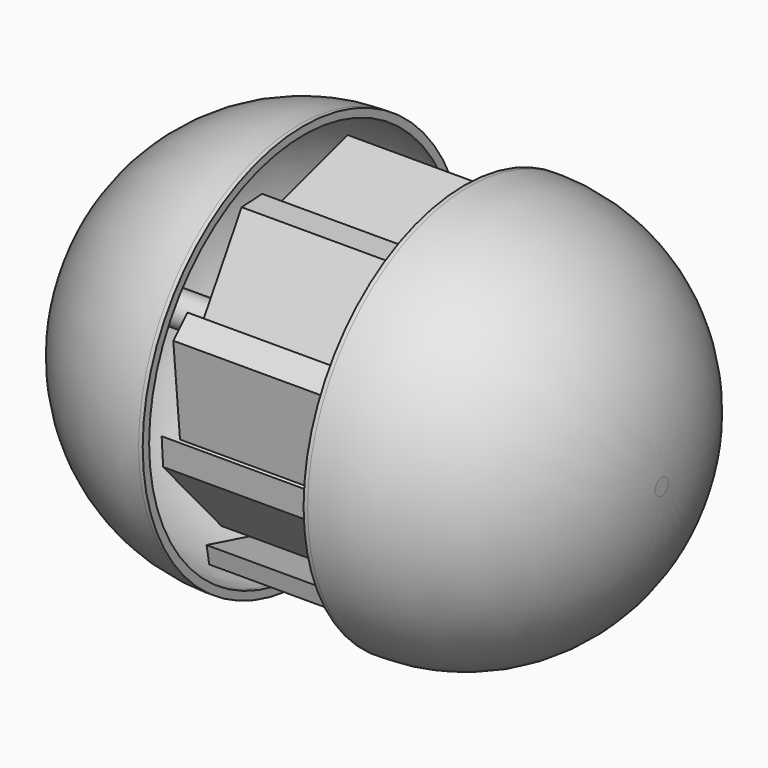
from build123d import *

# Parameters (mm, degrees)
F0_R          = 63.5
F1_DEPTH      = 62.24945
F2_R          = 60.96
F3_T          = -2.54
F5_DEPTH      = 50.8
F5_DEPTH_BACK = 13.64568
F6_R          = 63.5
F7_DEPTH      = 62.2554
F8_R          = 60.96
F9_T          = -2.54
F11_DEPTH     = 62.23


with BuildPart() as f1:
    # F0 (on Right) → F1 (new body)
    with BuildSketch(Plane.YZ):
        Circle(F0_R)
    extrude(amount=F1_DEPTH)

    # F2
    f2_edges = [f1.edges().sort_by_distance(p)[0] for p in [
        (62.24945, -63.5, 0),
    ]]
    fillet(f2_edges, radius=F2_R)

    # F3
    f3_openings = [f1.faces().sort_by_distance(p)[0] for p in [
        (0, 0, 0),
    ]]
    offset(amount=F3_T, openings=f3_openings)


with BuildPart() as f5:
    # F4 (on Right) → F5 (new body, two sides)
    with BuildSketch(Plane.YZ) as f5_sk:
        Polygon((-12.2779998928, -54.0258996189), (0, -56.0381636024), (27.318008244, -42.0982576907), align=None)
    extrude(amount=-F5_DEPTH)
    extrude(f5_sk.sketch, amount=F5_DEPTH_BACK)


with BuildPart() as f5b:
    # F4 (on Right) → F5, piece 2 (new body, two sides)
    with BuildSketch(Plane.YZ) as f5_2_sk:
        Polygon((26.4493785799, -48.795837909), (31.8828113377, -46.9619706273), (47.5382730365, -20.5004774034), align=None)
    extrude(amount=-F5_DEPTH)
    extrude(f5_2_sk.sketch, amount=F5_DEPTH_BACK)


with BuildPart() as f5c:
    # F4 (on Right) → F5, piece 3 (new body, two sides)
    with BuildSketch(Plane.YZ) as f5_3_sk:
        Polygon((54.8039674759, 0), (57.2355017066, 5.0882892683), (40.709707886, 22.2628358752), align=None)
    extrude(amount=-F5_DEPTH)
    extrude(f5_3_sk.sketch, amount=F5_DEPTH_BACK)


with BuildPart() as f5d:
    # F4 (on Right) → F5, piece 4 (new body, two sides)
    with BuildSketch(Plane.YZ) as f5_4_sk:
        Polygon((45.5096811056, 23.9293668419), (48.1954142451, 28.621762991), (17.884682864, 43.3531589806), align=None)
    extrude(amount=-F5_DEPTH)
    extrude(f5_4_sk.sketch, amount=F5_DEPTH_BACK)


with BuildPart() as f5e:
    # F4 (on Right) → F5, piece 5 (new body, two sides)
    with BuildSketch(Plane.YZ) as f5_5_sk:
        Polygon((17.4675732851, 53.8366436958), (-16.9960986823, 43.6473637819), (22.3015490919, 49.163594842), align=None)
    extrude(amount=-F5_DEPTH)
    extrude(f5_5_sk.sketch, amount=F5_DEPTH_BACK)


with BuildPart() as f5f:
    # F4 (on Right) → F5, piece 6 (new body, two sides)
    with BuildSketch(Plane.YZ) as f5_6_sk:
        Polygon((49.7148856521, 0), (50.1664020121, -27.1181967109), (53.7517331541, -19.3063598126), align=None)
    extrude(amount=-F5_DEPTH)
    extrude(f5_6_sk.sketch, amount=F5_DEPTH_BACK)


with BuildPart() as f5g:
    # F4 (on Right) → F5, piece 7 (new body, two sides)
    with BuildSketch(Plane.YZ) as f5_7_sk:
        Polygon((-16.3454543799, 51.2468442321), (-24.4541112334, 50.8350729942), (-42.9316759109, 20.0755931437), align=None)
    extrude(amount=-F5_DEPTH)
    extrude(f5_7_sk.sketch, amount=F5_DEPTH_BACK)


with BuildPart() as f5h:
    # F4 (on Right) → F5, piece 8 (new body, two sides)
    with BuildSketch(Plane.YZ) as f5_8_sk:
        Polygon((-45.8026230335, 30.2262138575), (-51.4272674918, 24.6791280806), (-48.7781465054, -3.8723812904), align=None)
    extrude(amount=-F5_DEPTH)
    extrude(f5_8_sk.sketch, amount=F5_DEPTH_BACK)


with BuildPart() as f5i:
    # F4 (on Right) → F5, piece 9 (new body, two sides)
    with BuildSketch(Plane.YZ) as f5_9_sk:
        Polygon((-32.4342508783, -34.5323896163), (-56.0246482491, 0), (-55.4331839085, -8.7939575315), align=None)
    extrude(amount=-F5_DEPTH)
    extrude(f5_9_sk.sketch, amount=F5_DEPTH_BACK)


with BuildPart() as f5j:
    # F4 (on Right) → F5, piece 10 (new body, two sides)
    with BuildSketch(Plane.YZ) as f5_10_sk:
        Polygon((-38.2842086256, -37.4709889293), (-37.2309498489, -43.2974100113), (0, -47.5588440895), align=None)
    extrude(amount=-F5_DEPTH)
    extrude(f5_10_sk.sketch, amount=F5_DEPTH_BACK)


with BuildPart() as f7:
    # F6 (on face) → F7 (new body)
    with BuildSketch(Plane(origin=(-50.8, 0, 0), x_dir=(0, -1, 0), z_dir=(-1, 0, 0))):
        Circle(F6_R)
    extrude(amount=F7_DEPTH)

    # F8
    f8_edges = [f7.edges().sort_by_distance(p)[0] for p in [
        (-113.0554, 63.5, 0),
    ]]
    fillet(f8_edges, radius=F8_R)

    # F9
    f9_openings = [f7.faces().sort_by_distance(p)[0] for p in [
        (-50.8, 0, 0),
    ]]
    offset(amount=F9_T, openings=f9_openings)


with BuildPart() as f11:
    # F10 (on face) → F11 (new body)
    with BuildSketch(Plane(origin=(-50.8, 0, 0), x_dir=(0, -1, 0), z_dir=(-1, 0, 0))):
        with BuildLine():
            Line((-5.08, 0), (0, 0))
            Line((0, 0), (5.08, 0))
            ThreePointArc((5.08, 0), (0, 5.08), (-5.08, 0))
        make_face()
        with BuildLine():
            Line((5.08, 0), (0, 0))
            Line((0, 0), (-5.08, 0))
            ThreePointArc((-5.08, 0), (0, -5.08), (5.08, 0))
        make_face()
    extrude(amount=F11_DEPTH)


solid = Compound([f1.part, f5.part, f5b.part, f5c.part, f5d.part, f5e.part, f5f.part, f5g.part, f5h.part, f5i.part, f5j.part, f7.part, f11.part])
